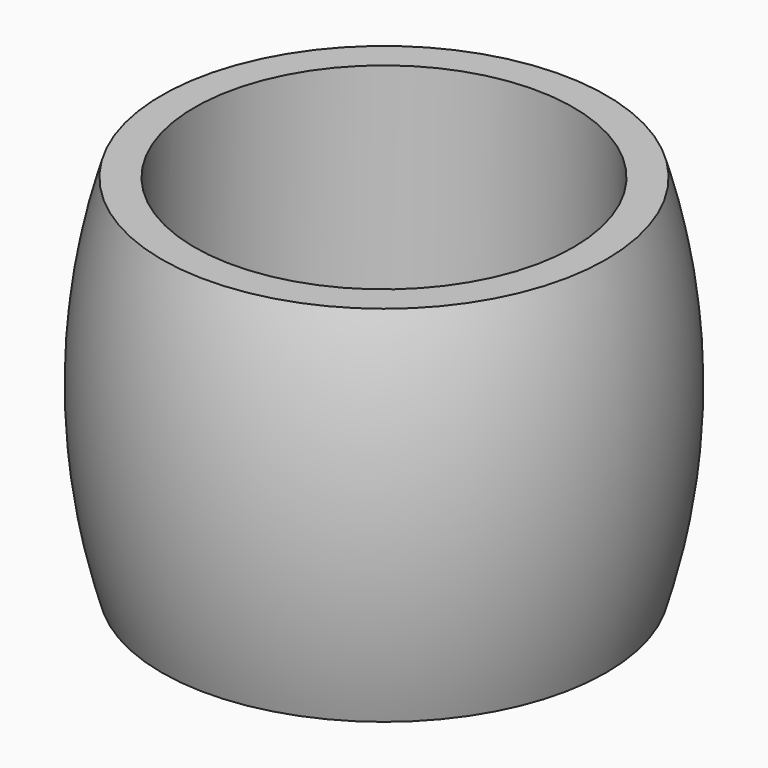
from build123d import *

# Parameters (mm, degrees)
F0_R     = 4.4
F0_R_2   = 3.75
F1_DEPTH = 7.2


with BuildPart() as f1:
    # F0 (on Top) → F1 (new body)
    with BuildSketch(Plane.XY):
        Circle(F0_R)
        Circle(F0_R_2, mode=Mode.SUBTRACT)
    extrude(amount=F1_DEPTH)

    # F2 (on Front) → F3 (revolve)
    with BuildSketch(Plane.XZ):
        with BuildLine():
            Line((4.4, 7.2), (4.4, 0))
            ThreePointArc((4.4, 0), (4.936519, 3.6), (4.4, 7.2))
        make_face()
    revolve(axis=Axis((0, 0, 3.6), (0, 0, 1)))


solid = f1.part
